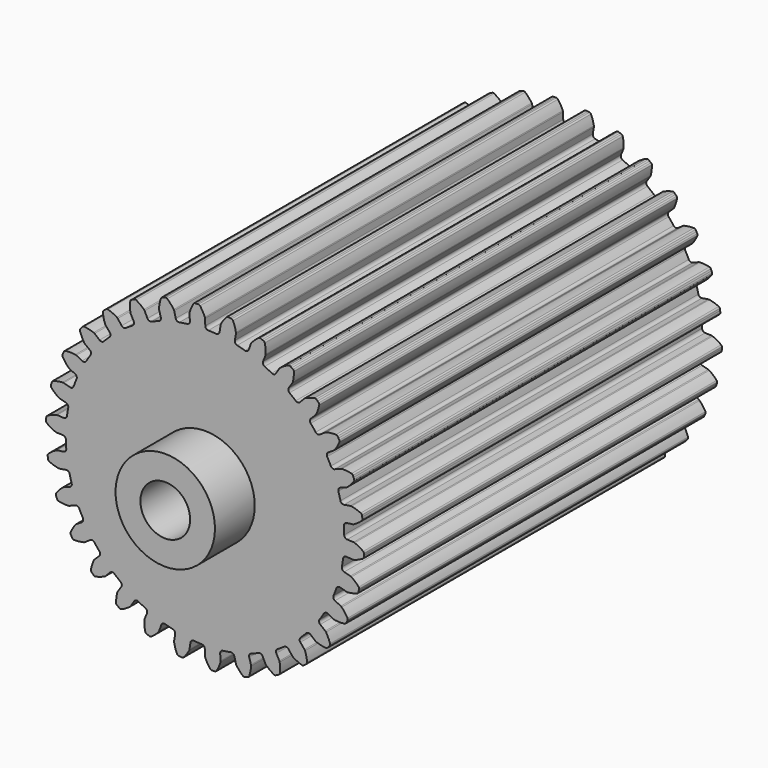
from build123d import *

# Parameters (mm, degrees)
F1_DEPTH = 114.3
F2_R     = 6.35
F3_DEPTH = 114.301
F4_R     = 12.7
F4_R_2   = 6.35
F5_DEPTH = 12.7


with BuildPart() as f1:
    # F0 (on Front) → F1 (new body)
    with BuildSketch(Plane.XZ):
        with BuildLine():
            ThreePointArc((-3.8648867532, 36.1064472555), (-4.0438641358, 35.5500539562), (-4.5552385769, 35.2670299502))
            ThreePointArc((-4.5552385769, 35.2670299502), (-5.5628095768, 35.1221973916), (-6.5658222639, 34.9485847782))
            ThreePointArc((-6.5658222639, 34.9485847782), (-7.139627486, 35.0597332106), (-7.4817800771, 35.5335876307))
            Line((-7.4817800771, 35.5335876307), (-7.8884012882, 37.1371493478))
            ThreePointArc((-7.8884012882, 37.1371493478), (-7.9329820235, 37.2655883274), (-7.9988274017, 37.3845353726))
            ThreePointArc((-7.9988274017, 37.3845353726), (-8.7617891916, 38.3738087942), (-9.6476630834, 39.2547174404))
            ThreePointArc((-9.6476630834, 39.2547174404), (-9.8626647032, 39.3656963897), (-10.1046169471, 39.3646308454))
            Line((-10.1046169471, 39.3646308454), (-10.5199155085, 39.2608591692))
            Line((-10.5199155086, 39.2608591692), (-10.931460451, 39.1430787963))
            ThreePointArc((-10.931460451, 39.1430787963), (-11.1415300129, 39.0230254627), (-11.2722374029, 38.8194140635))
            ThreePointArc((-11.2722374029, 38.8194140635), (-11.5989723746, 37.6135878515), (-11.7650799559, 36.3753710422))
            ThreePointArc((-11.7650799559, 36.3753710422), (-11.7626302036, 36.2394371902), (-11.7370187631, 36.1059154035))
            Line((-11.7370187631, 36.1059154035), (-11.287382203, 34.5138796143))
            ThreePointArc((-11.287382203, 34.5138796143), (-11.3467678289, 33.9324333533), (-11.7881235118, 33.5492733762))
            ThreePointArc((-11.7881235118, 33.5492733762), (-12.7435642858, 33.1981199662), (-13.6885626472, 32.8197631413))
            ThreePointArc((-13.6885626472, 32.8197631413), (-14.272937907, 32.8091818999), (-14.7061335168, 33.2015439403))
            Line((-14.7061335168, 33.2015439403), (-15.4372683068, 34.685522683))
            ThreePointArc((-15.4372683068, 34.685522683), (-15.5075788114, 34.8018861066), (-15.5967157914, 34.9045438496))
            ThreePointArc((-15.5967157914, 34.9045438496), (-16.5486865454, 35.7135705976), (-17.5983531733, 36.3910457378))
            ThreePointArc((-17.5983531733, 36.3910457378), (-17.8317303129, 36.4548981804), (-18.0681737806, 36.4035512207))
            Line((-18.0681737806, 36.4035512207), (-18.4528217274, 36.2157017785))
            Line((-18.4528217274, 36.2157017785), (-18.830885509, 36.0149301845))
            ThreePointArc((-18.830885509, 36.0149301845), (-19.0114040554, 35.8538243865), (-19.096921985, 35.6274867904))
            ThreePointArc((-19.096921985, 35.6274867904), (-19.1658116471, 34.3800787538), (-19.0708496289, 33.1343842445))
            ThreePointArc((-19.0708496289, 33.1343842445), (-19.0401911724, 33.0019302055), (-18.9873786629, 32.876651108))
            Line((-18.9873786629, 32.876651108), (-18.2165648877, 31.412889818))
            ThreePointArc((-18.2165648877, 31.412889818), (-18.1537633199, 30.831802587), (-18.5058108836, 30.3652525684))
            ThreePointArc((-18.5058108836, 30.3652525684), (-19.3673640851, 29.8231253961), (-20.2130471578, 29.2565603685))
            ThreePointArc((-20.2130471578, 29.2565603685), (-20.7824524523, 29.1247119043), (-21.2877583539, 29.418433461))
            Line((-21.2877583539, 29.418433461), (-22.3114526241, 30.7179722373))
            ThreePointArc((-22.3114526241, 30.7179722373), (-22.4044199916, 30.817174465), (-22.5129528597, 30.8990562698))
            ThreePointArc((-22.5129528597, 30.8990562698), (-23.6123268877, 31.4924779932), (-24.7799107833, 31.9369107127))
            ThreePointArc((-24.7799107833, 31.9369107127), (-25.0214637417, 31.9508459906), (-25.2420647192, 31.851461724))
            Line((-25.2420647192, 31.851461724), (-25.5792510904, 31.5877444378))
            Line((-25.5792510904, 31.5877444378), (-25.9073105097, 31.3127563047))
            ThreePointArc((-25.9073105097, 31.3127563047), (-26.0503885138, 31.1176391388), (-26.0869794392, 30.8784673849))
            ThreePointArc((-26.0869794392, 30.8784673849), (-25.8950129829, 29.6439952406), (-25.5431316609, 28.4452658589))
            ThreePointArc((-25.5431316609, 28.4452658589), (-25.4856044221, 28.3220805099), (-25.4078990036, 28.2105193995))
            Line((-25.4078990036, 28.2105193995), (-24.3495962741, 26.9390060009))
            ThreePointArc((-24.3495962741, 26.9390060009), (-24.1673522425, 26.3836741002), (-24.414705519, 25.8541245146))
            ThreePointArc((-24.414705519, 25.8541245146), (-25.144717139, 25.144717139), (-25.8541245146, 24.414705519))
            ThreePointArc((-25.8541245146, 24.414705519), (-26.3836741002, 24.1673522425), (-26.9390060009, 24.3495962741))
            Line((-26.9390060009, 24.3495962741), (-28.2105193995, 25.4078990036))
            ThreePointArc((-28.2105193995, 25.4078990036), (-28.3220805099, 25.4856044221), (-28.4452658589, 25.5431316609))
            ThreePointArc((-28.4452658589, 25.5431316609), (-29.6439952406, 25.8950129829), (-30.8784673849, 26.0869794392))
            ThreePointArc((-30.8784673849, 26.0869794392), (-31.1176391388, 26.0503885138), (-31.3127563047, 25.9073105097))
            Line((-31.3127563047, 25.9073105097), (-31.5877444378, 25.5792510904))
            Line((-31.5877444378, 25.5792510904), (-31.851461724, 25.2420647192))
            ThreePointArc((-31.851461724, 25.2420647192), (-31.9508459906, 25.0214637418), (-31.9369107127, 24.7799107833))
            ThreePointArc((-31.9369107127, 24.7799107833), (-31.4924779932, 23.6123268877), (-30.8990562698, 22.5129528597))
            ThreePointArc((-30.8990562698, 22.5129528597), (-30.817174465, 22.4044199916), (-30.7179722373, 22.3114526241))
            Line((-30.7179722373, 22.3114526241), (-29.418433461, 21.2877583539))
            ThreePointArc((-29.418433461, 21.2877583539), (-29.1247119043, 20.7824524523), (-29.2565603685, 20.2130471578))
            ThreePointArc((-29.2565603685, 20.2130471578), (-29.8231253961, 19.3673640851), (-30.3652525684, 18.5058108836))
            ThreePointArc((-30.3652525684, 18.5058108836), (-30.831802587, 18.1537633199), (-31.412889818, 18.2165648877))
            Line((-31.412889818, 18.2165648877), (-32.876651108, 18.9873786629))
            ThreePointArc((-32.876651108, 18.9873786629), (-33.0019302055, 19.0401911724), (-33.1343842445, 19.0708496289))
            ThreePointArc((-33.1343842445, 19.0708496289), (-34.3800787538, 19.1658116471), (-35.6274867904, 19.096921985))
            ThreePointArc((-35.6274867904, 19.096921985), (-35.8538243865, 19.0114040554), (-36.0149301844, 18.830885509))
            Line((-36.0149301844, 18.830885509), (-36.2157017785, 18.4528217274))
            Line((-36.2157017785, 18.4528217274), (-36.4035512207, 18.0681737806))
            ThreePointArc((-36.4035512207, 18.0681737806), (-36.4548981804, 17.8317303129), (-36.3910457378, 17.5983531733))
            ThreePointArc((-36.3910457378, 17.5983531733), (-35.7135705976, 16.5486865454), (-34.9045438496, 15.5967157914))
            ThreePointArc((-34.9045438496, 15.5967157914), (-34.8018861066, 15.5075788114), (-34.685522683, 15.4372683068))
            Line((-34.685522683, 15.4372683068), (-33.2015439403, 14.7061335168))
            ThreePointArc((-33.2015439403, 14.7061335168), (-32.8091818999, 14.272937907), (-32.8197631413, 13.6885626472))
            ThreePointArc((-32.8197631413, 13.6885626472), (-33.1981199662, 12.7435642858), (-33.5492733762, 11.7881235118))
            ThreePointArc((-33.5492733762, 11.7881235118), (-33.9324333533, 11.3467678289), (-34.5138796143, 11.287382203))
            Line((-34.5138796143, 11.287382203), (-36.1059154035, 11.7370187631))
            ThreePointArc((-36.1059154035, 11.7370187631), (-36.2394371902, 11.7626302036), (-36.3753710422, 11.7650799559))
            ThreePointArc((-36.3753710422, 11.7650799559), (-37.6135878515, 11.5989723746), (-38.8194140635, 11.2722374029))
            ThreePointArc((-38.8194140635, 11.2722374029), (-39.0230254627, 11.1415300129), (-39.1430787963, 10.931460451))
            Line((-39.1430787963, 10.931460451), (-39.2608591692, 10.5199155085))
            Line((-39.2608591692, 10.5199155085), (-39.3646308455, 10.1046169471))
            ThreePointArc((-39.3646308455, 10.1046169471), (-39.3656963897, 9.8626647032), (-39.2547174405, 9.6476630834))
            ThreePointArc((-39.2547174405, 9.6476630834), (-38.3738087942, 8.7617891916), (-37.3845353726, 7.9988274017))
            ThreePointArc((-37.3845353726, 7.9988274017), (-37.2655883274, 7.9329820235), (-37.1371493478, 7.8884012882))
            Line((-37.1371493478, 7.8884012882), (-35.5335876307, 7.4817800771))
            ThreePointArc((-35.5335876307, 7.4817800771), (-35.0597332106, 7.139627486), (-34.9485847782, 6.5658222639))
            ThreePointArc((-34.9485847782, 6.5658222639), (-35.1221973916, 5.5628095768), (-35.2670299502, 4.5552385769))
            ThreePointArc((-35.2670299502, 4.5552385769), (-35.5500539562, 4.0438641358), (-36.1064472555, 3.8648867532))
            Line((-36.1064472555, 3.8648867532), (-37.7571779404, 3.9736948228))
            ThreePointArc((-37.7571779404, 3.9736948228), (-37.8931068736, 3.9709858514), (-38.026579577, 3.9451198338))
            ThreePointArc((-38.026579577, 3.9451198338), (-39.2032026701, 3.5252023512), (-40.3147466658, 2.954901956))
            ThreePointArc((-40.3147466658, 2.954901956), (-40.486733073, 2.7847176458), (-40.5604870354, 2.5542781163))
            Line((-40.5604870354, 2.5542781163), (-40.5901286198, 2.1272385018))
            Line((-40.5901286198, 2.1272385018), (-40.6052872098, 1.6994398656))
            ThreePointArc((-40.6052872098, 1.6994398656), (-40.5560247692, 1.4625533197), (-40.402769626, 1.2753238221))
            ThreePointArc((-40.402769626, 1.2753238221), (-39.3569274084, 0.5919596064), (-38.2306433089, 0.0513518719))
            ThreePointArc((-38.2306433089, 0.0513518719), (-38.1006055181, 0.0116758545), (-37.9657043824, -0.0052267193))
            Line((-37.9657043824, -0.0052267193), (-36.3126430326, -0.0695630535))
            ThreePointArc((-36.3126430326, -0.0695630535), (-35.7780059448, -0.3057189159), (-35.5499855583, -0.8438760587))
            ThreePointArc((-35.5499855583, -0.8438760587), (-35.5112662559, -1.861066604), (-35.4434480854, -2.8767321423))
            ThreePointArc((-35.4434480854, -2.8767321423), (-35.6139666132, -3.4357758245), (-36.1209898937, -3.7265227936))
            Line((-36.1209898937, -3.7265227936), (-37.7582706223, -3.9632986491))
            ThreePointArc((-37.7582706223, -3.9632986491), (-37.8906659554, -3.9942096373), (-38.0158441125, -4.0472609558))
            ThreePointArc((-38.0158441125, -4.0472609558), (-39.0794494141, -4.7026359306), (-40.0481313872, -5.4915768855))
            ThreePointArc((-40.0481313872, -5.4915768855), (-40.1809761711, -5.6938002449), (-40.2052073603, -5.9345384288))
            Line((-40.2052073603, -5.9345384288), (-40.1454146766, -6.3584090351))
            Line((-40.1454146766, -6.3584090351), (-40.0712976773, -6.7800108928))
            ThreePointArc((-40.0712976773, -6.7800108928), (-39.9738602569, -7.001478662), (-39.7850269048, -7.1527532099))
            ThreePointArc((-39.7850269048, -7.1527532099), (-38.6199594395, -7.6037414542), (-37.4058886817, -7.8983679811))
            ThreePointArc((-37.4058886817, -7.8983679811), (-37.2704434206, -7.9101406054), (-37.1349759557, -7.8986262942))
            Line((-37.1349759557, -7.8986262942), (-35.5046616866, -7.6178659448))
            ThreePointArc((-35.5046616866, -7.6178659448), (-34.9326081372, -7.7377039341), (-34.5976813818, -8.2166929481))
            ThreePointArc((-34.5976813818, -8.2166929481), (-34.3483223828, -9.2036052438), (-34.0708174627, -10.1829758628))
            ThreePointArc((-34.0708174627, -10.1829758628), (-34.1213780343, -10.7652558947), (-34.5568719457, -11.1550654125))
            Line((-34.5568719457, -11.1550654125), (-36.1091456937, -11.7270769521))
            ThreePointArc((-36.1091456937, -11.7270769521), (-36.2322211153, -11.7848389986), (-36.34363384, -11.8627570208))
            ThreePointArc((-36.34363384, -11.8627570208), (-37.2477366948, -12.7249464566), (-38.0312205948, -13.6980474656))
            ThreePointArc((-38.0312205948, -13.6980474656), (-38.1191178008, -13.9234717431), (-38.0927671975, -14.1639871676))
            Line((-38.0927671975, -14.1639871676), (-37.9461534729, -14.5661635862))
            Line((-37.946153473, -14.5661635862), (-37.7860001528, -14.963142641))
            ThreePointArc((-37.7860001528, -14.963142641), (-37.6446462355, -15.1595124294), (-37.4284875982, -15.268220604))
            ThreePointArc((-37.4284875982, -15.268220604), (-36.1951139239, -15.4671225264), (-34.9463172256, -15.5028912528))
            ThreePointArc((-34.9463172256, -15.5028912528), (-34.8113841023, -15.4862459637), (-34.6812708864, -15.4468179982))
            Line((-34.6812708864, -15.4468179982), (-33.1449562546, -14.8332315398))
            ThreePointArc((-33.1449562546, -14.8332315398), (-32.5604877288, -14.8315141608), (-32.1332925108, -15.2304009276))
            ThreePointArc((-32.1332925108, -15.2304009276), (-31.6841920001, -16.1439021707), (-31.209128627, -17.0441746747))
            ThreePointArc((-31.209128627, -17.0441746747), (-31.1375215029, -17.6242426248), (-31.4824528715, -18.0960781448))
            Line((-31.4824528715, -18.0960781448), (-32.8818778274, -18.9783257195))
            ThreePointArc((-32.8818778274, -18.9783257195), (-32.990254351, -19.0604143456), (-33.0830323726, -19.1597936801))
            ThreePointArc((-33.0830323726, -19.1597936801), (-33.7881191474, -20.1911157613), (-34.3521629683, -21.3058476409))
            ThreePointArc((-34.3521629683, -21.3058476409), (-34.3912710668, -21.5446207138), (-34.3154903188, -21.7744017007))
            Line((-34.3154903188, -21.7744017007), (-34.0884632767, -22.1373068923))
            Line((-34.0884632767, -22.1373068923), (-33.8492731044, -22.4923132548))
            ThreePointArc((-33.8492731044, -22.4923132548), (-33.6701805346, -22.6550027601), (-33.4361437817, -22.7163934925))
            ThreePointArc((-33.4361437817, -22.7163934925), (-32.1883682464, -22.6545161247), (-30.9594240158, -22.4298637856))
            ThreePointArc((-30.9594240158, -22.4298637856), (-30.8309002552, -22.3855280622), (-30.7118278602, -22.3199096336))
            Line((-30.7118278602, -22.3199096336), (-29.3366571871, -21.4003137387))
            ThreePointArc((-29.3366571871, -21.4003137387), (-28.7653177641, -21.2771160492), (-28.2645245644, -21.578467303))
            ThreePointArc((-28.2645245644, -21.578467303), (-27.6353103894, -22.3786331057), (-26.9834511123, -23.1604612664))
            ThreePointArc((-26.9834511123, -23.1604612664), (-26.7928058673, -23.7129653818), (-27.0320995372, -24.2462054277))
            Line((-27.0320995372, -24.2462054277), (-28.2175141152, -25.4001305848))
            ThreePointArc((-28.2175141152, -25.4001305848), (-28.3064551667, -25.5029581238), (-28.3765436405, -25.6194554167))
            ThreePointArc((-28.3765436405, -25.6194554167), (-28.8517986599, -26.7748364196), (-29.1717509801, -27.9824800376))
            ThreePointArc((-29.1717509801, -27.9824800376), (-29.1603607595, -28.2241663768), (-29.0384618492, -28.4331703944))
            Line((-29.0384618492, -28.4331703944), (-28.7409436607, -28.7409436607))
            Line((-28.7409436607, -28.7409436607), (-28.4331703944, -29.0384618492))
            ThreePointArc((-28.4331703944, -29.0384618492), (-28.2241663768, -29.1603607595), (-27.9824800376, -29.1717509801))
            ThreePointArc((-27.9824800376, -29.1717509801), (-26.7748364196, -28.8517986599), (-25.6194554167, -28.3765436405))
            ThreePointArc((-25.6194554167, -28.3765436405), (-25.5029581238, -28.3064551667), (-25.4001305848, -28.2175141152))
            Line((-25.4001305848, -28.2175141152), (-24.2462054277, -27.0320995372))
            ThreePointArc((-24.2462054277, -27.0320995372), (-23.7129653818, -26.7928058673), (-23.1604612664, -26.9834511123))
            ThreePointArc((-23.1604612664, -26.9834511123), (-22.3786331057, -27.6353103894), (-21.578467303, -28.2645245644))
            ThreePointArc((-21.578467303, -28.2645245644), (-21.2771160492, -28.7653177641), (-21.4003137387, -29.3366571871))
            Line((-21.4003137387, -29.3366571871), (-22.3199096336, -30.7118278602))
            ThreePointArc((-22.3199096336, -30.7118278602), (-22.3855280622, -30.8309002552), (-22.4298637856, -30.9594240158))
            ThreePointArc((-22.4298637856, -30.9594240158), (-22.6545161247, -32.1883682464), (-22.7163934925, -33.4361437817))
            ThreePointArc((-22.7163934925, -33.4361437817), (-22.6550027601, -33.6701805346), (-22.4923132548, -33.8492731044))
            Line((-22.4923132548, -33.8492731044), (-22.1373068923, -34.0884632767))
            Line((-22.1373068923, -34.0884632767), (-21.7744017007, -34.3154903188))
            ThreePointArc((-21.7744017007, -34.3154903188), (-21.5446207138, -34.3912710668), (-21.305847641, -34.3521629683))
            ThreePointArc((-21.305847641, -34.3521629683), (-20.1911157613, -33.7881191474), (-19.1597936801, -33.0830323726))
            ThreePointArc((-19.1597936801, -33.0830323726), (-19.0604143456, -32.990254351), (-18.9783257195, -32.8818778274))
            Line((-18.9783257195, -32.8818778274), (-18.0960781448, -31.4824528715))
            ThreePointArc((-18.0960781448, -31.4824528715), (-17.6242426248, -31.1375215029), (-17.0441746747, -31.209128627))
            ThreePointArc((-17.0441746747, -31.209128627), (-16.1439021707, -31.6841920001), (-15.2304009276, -32.1332925108))
            ThreePointArc((-15.2304009276, -32.1332925108), (-14.8315141608, -32.5604877288), (-14.8332315398, -33.1449562546))
            Line((-14.8332315398, -33.1449562546), (-15.4468179982, -34.6812708864))
            ThreePointArc((-15.4468179982, -34.6812708864), (-15.4862459637, -34.8113841023), (-15.5028912528, -34.9463172256))
            ThreePointArc((-15.5028912528, -34.9463172256), (-15.4671225264, -36.1951139239), (-15.268220604, -37.4284875982))
            ThreePointArc((-15.268220604, -37.4284875982), (-15.1595124294, -37.6446462355), (-14.963142641, -37.7860001528))
            Line((-14.963142641, -37.7860001528), (-14.5661635862, -37.946153473))
            Line((-14.5661635862, -37.946153473), (-14.1639871676, -38.0927671975))
            ThreePointArc((-14.1639871676, -38.0927671975), (-13.9234717431, -38.1191178008), (-13.6980474656, -38.0312205948))
            ThreePointArc((-13.6980474656, -38.0312205948), (-12.7249464566, -37.2477366948), (-11.8627570208, -36.34363384))
            ThreePointArc((-11.8627570208, -36.34363384), (-11.7848389986, -36.2322211153), (-11.7270769521, -36.1091456937))
            Line((-11.7270769521, -36.1091456937), (-11.1550654125, -34.5568719457))
            ThreePointArc((-11.1550654125, -34.5568719457), (-10.7652558947, -34.1213780343), (-10.1829758628, -34.0708174627))
            ThreePointArc((-10.1829758628, -34.0708174627), (-9.2036052438, -34.3483223828), (-8.2166929481, -34.5976813818))
            ThreePointArc((-8.2166929481, -34.5976813818), (-7.7377039341, -34.9326081372), (-7.6178659448, -35.5046616866))
            Line((-7.6178659448, -35.5046616866), (-7.8986262942, -37.1349759557))
            ThreePointArc((-7.8986262942, -37.1349759557), (-7.9101406054, -37.2704434206), (-7.8983679811, -37.4058886817))
            ThreePointArc((-7.8983679811, -37.4058886817), (-7.6037414542, -38.6199594395), (-7.1527532099, -39.7850269048))
            ThreePointArc((-7.1527532099, -39.7850269048), (-7.001478662, -39.9738602569), (-6.7800108928, -40.0712976773))
            Line((-6.7800108928, -40.0712976773), (-6.3584090351, -40.1454146766))
            Line((-6.3584090351, -40.1454146766), (-5.9345384288, -40.2052073603))
            ThreePointArc((-5.9345384288, -40.2052073603), (-5.6938002449, -40.1809761711), (-5.4915768855, -40.0481313873))
            ThreePointArc((-5.4915768855, -40.0481313873), (-4.7026359306, -39.0794494141), (-4.0472609558, -38.0158441125))
            ThreePointArc((-4.0472609558, -38.0158441125), (-3.9942096373, -37.8906659554), (-3.9632986491, -37.7582706223))
            Line((-3.9632986491, -37.7582706223), (-3.7265227936, -36.1209898937))
            ThreePointArc((-3.7265227936, -36.1209898937), (-3.4357758245, -35.6139666132), (-2.8767321423, -35.4434480854))
            ThreePointArc((-2.8767321423, -35.4434480854), (-1.861066604, -35.5112662559), (-0.8438760587, -35.5499855583))
            ThreePointArc((-0.8438760587, -35.5499855583), (-0.3057189159, -35.7780059448), (-0.0695630535, -36.3126430326))
            Line((-0.0695630535, -36.3126430326), (-0.0052267193, -37.9657043824))
            ThreePointArc((-0.0052267193, -37.9657043824), (0.0116758545, -38.1006055181), (0.0513518719, -38.2306433089))
            ThreePointArc((0.0513518719, -38.2306433089), (0.5919596064, -39.3569274084), (1.2753238221, -40.402769626))
            ThreePointArc((1.2753238221, -40.402769626), (1.4625533197, -40.5560247692), (1.6994398656, -40.6052872098))
            Line((1.6994398656, -40.6052872098), (2.1272385018, -40.5901286198))
            Line((2.1272385018, -40.5901286198), (2.5542781163, -40.5604870354))
            ThreePointArc((2.5542781163, -40.5604870354), (2.7847176458, -40.486733073), (2.954901956, -40.3147466658))
            ThreePointArc((2.954901956, -40.3147466658), (3.5252023512, -39.2032026701), (3.9451198338, -38.026579577))
            ThreePointArc((3.9451198338, -38.026579577), (3.9709858514, -37.8931068736), (3.9736948228, -37.7571779404))
            Line((3.9736948228, -37.7571779404), (3.8648867532, -36.1064472555))
            ThreePointArc((3.8648867532, -36.1064472555), (4.0438641358, -35.5500539562), (4.5552385769, -35.2670299502))
            ThreePointArc((4.5552385769, -35.2670299502), (5.5628095768, -35.1221973916), (6.5658222639, -34.9485847782))
            ThreePointArc((6.5658222639, -34.9485847782), (7.139627486, -35.0597332106), (7.4817800771, -35.5335876307))
            Line((7.4817800771, -35.5335876307), (7.8884012882, -37.1371493478))
            ThreePointArc((7.8884012882, -37.1371493478), (7.9329820235, -37.2655883274), (7.9988274017, -37.3845353726))
            ThreePointArc((7.9988274017, -37.3845353726), (8.7617891916, -38.3738087942), (9.6476630834, -39.2547174404))
            ThreePointArc((9.6476630834, -39.2547174404), (9.8626647032, -39.3656963897), (10.1046169471, -39.3646308454))
            Line((10.1046169471, -39.3646308454), (10.5199155085, -39.2608591692))
            Line((10.5199155086, -39.2608591692), (10.931460451, -39.1430787963))
            ThreePointArc((10.931460451, -39.1430787963), (11.1415300129, -39.0230254627), (11.2722374029, -38.8194140635))
            ThreePointArc((11.2722374029, -38.8194140635), (11.5989723746, -37.6135878515), (11.7650799559, -36.3753710422))
            ThreePointArc((11.7650799559, -36.3753710422), (11.7626302036, -36.2394371902), (11.7370187631, -36.1059154035))
            Line((11.7370187631, -36.1059154035), (11.287382203, -34.5138796143))
            ThreePointArc((11.287382203, -34.5138796143), (11.3467678289, -33.9324333533), (11.7881235118, -33.5492733762))
            ThreePointArc((11.7881235118, -33.5492733762), (12.7435642858, -33.1981199662), (13.6885626472, -32.8197631413))
            ThreePointArc((13.6885626472, -32.8197631413), (14.272937907, -32.8091818999), (14.7061335168, -33.2015439403))
            Line((14.7061335168, -33.2015439403), (15.4372683068, -34.685522683))
            ThreePointArc((15.4372683068, -34.685522683), (15.5075788114, -34.8018861066), (15.5967157914, -34.9045438496))
            ThreePointArc((15.5967157914, -34.9045438496), (16.5486865454, -35.7135705976), (17.5983531733, -36.3910457378))
            ThreePointArc((17.5983531733, -36.3910457378), (17.8317303129, -36.4548981804), (18.0681737806, -36.4035512207))
            Line((18.0681737806, -36.4035512207), (18.4528217274, -36.2157017785))
            Line((18.4528217274, -36.2157017785), (18.830885509, -36.0149301845))
            ThreePointArc((18.830885509, -36.0149301845), (19.0114040554, -35.8538243865), (19.096921985, -35.6274867904))
            ThreePointArc((19.096921985, -35.6274867904), (19.1658116471, -34.3800787538), (19.0708496289, -33.1343842445))
            ThreePointArc((19.0708496289, -33.1343842445), (19.0401911724, -33.0019302055), (18.9873786629, -32.876651108))
            Line((18.9873786629, -32.876651108), (18.2165648877, -31.412889818))
            ThreePointArc((18.2165648877, -31.412889818), (18.1537633199, -30.831802587), (18.5058108836, -30.3652525684))
            ThreePointArc((18.5058108836, -30.3652525684), (19.3673640851, -29.8231253961), (20.2130471578, -29.2565603685))
            ThreePointArc((20.2130471578, -29.2565603685), (20.7824524523, -29.1247119043), (21.2877583539, -29.418433461))
            Line((21.2877583539, -29.418433461), (22.3114526241, -30.7179722373))
            ThreePointArc((22.3114526241, -30.7179722373), (22.4044199916, -30.817174465), (22.5129528597, -30.8990562698))
            ThreePointArc((22.5129528597, -30.8990562698), (23.6123268877, -31.4924779932), (24.7799107833, -31.9369107127))
            ThreePointArc((24.7799107833, -31.9369107127), (25.0214637417, -31.9508459906), (25.2420647192, -31.851461724))
            Line((25.2420647192, -31.851461724), (25.5792510904, -31.5877444378))
            Line((25.5792510904, -31.5877444378), (25.9073105097, -31.3127563047))
            ThreePointArc((25.9073105097, -31.3127563047), (26.0503885138, -31.1176391388), (26.0869794392, -30.8784673849))
            ThreePointArc((26.0869794392, -30.8784673849), (25.8950129829, -29.6439952406), (25.5431316609, -28.4452658589))
            ThreePointArc((25.5431316609, -28.4452658589), (25.4856044221, -28.3220805099), (25.4078990036, -28.2105193995))
            Line((25.4078990036, -28.2105193995), (24.3495962741, -26.9390060009))
            ThreePointArc((24.3495962741, -26.9390060009), (24.1673522425, -26.3836741002), (24.414705519, -25.8541245146))
            ThreePointArc((24.414705519, -25.8541245146), (25.144717139, -25.144717139), (25.8541245146, -24.414705519))
            ThreePointArc((25.8541245146, -24.414705519), (26.3836741002, -24.1673522425), (26.9390060009, -24.3495962741))
            Line((26.9390060009, -24.3495962741), (28.2105193995, -25.4078990036))
            ThreePointArc((28.2105193995, -25.4078990036), (28.3220805099, -25.4856044221), (28.4452658589, -25.5431316609))
            ThreePointArc((28.4452658589, -25.5431316609), (29.6439952406, -25.8950129829), (30.8784673849, -26.0869794392))
            ThreePointArc((30.8784673849, -26.0869794392), (31.1176391388, -26.0503885138), (31.3127563047, -25.9073105097))
            Line((31.3127563047, -25.9073105097), (31.5877444378, -25.5792510904))
            Line((31.5877444378, -25.5792510904), (31.851461724, -25.2420647192))
            ThreePointArc((31.851461724, -25.2420647192), (31.9508459906, -25.0214637418), (31.9369107127, -24.7799107833))
            ThreePointArc((31.9369107127, -24.7799107833), (31.4924779932, -23.6123268877), (30.8990562698, -22.5129528597))
            ThreePointArc((30.8990562698, -22.5129528597), (30.817174465, -22.4044199916), (30.7179722373, -22.3114526241))
            Line((30.7179722373, -22.3114526241), (29.418433461, -21.2877583539))
            ThreePointArc((29.418433461, -21.2877583539), (29.1247119043, -20.7824524523), (29.2565603685, -20.2130471578))
            ThreePointArc((29.2565603685, -20.2130471578), (29.8231253961, -19.3673640851), (30.3652525684, -18.5058108836))
            ThreePointArc((30.3652525684, -18.5058108836), (30.831802587, -18.1537633199), (31.412889818, -18.2165648877))
            Line((31.412889818, -18.2165648877), (32.876651108, -18.9873786629))
            ThreePointArc((32.876651108, -18.9873786629), (33.0019302055, -19.0401911724), (33.1343842445, -19.0708496289))
            ThreePointArc((33.1343842445, -19.0708496289), (34.3800787538, -19.1658116471), (35.6274867904, -19.096921985))
            ThreePointArc((35.6274867904, -19.096921985), (35.8538243865, -19.0114040554), (36.0149301844, -18.830885509))
            Line((36.0149301844, -18.830885509), (36.2157017785, -18.4528217274))
            Line((36.2157017785, -18.4528217274), (36.4035512207, -18.0681737806))
            ThreePointArc((36.4035512207, -18.0681737806), (36.4548981804, -17.8317303129), (36.3910457378, -17.5983531733))
            ThreePointArc((36.3910457378, -17.5983531733), (35.7135705976, -16.5486865454), (34.9045438496, -15.5967157914))
            ThreePointArc((34.9045438496, -15.5967157914), (34.8018861066, -15.5075788114), (34.685522683, -15.4372683068))
            Line((34.685522683, -15.4372683068), (33.2015439403, -14.7061335168))
            ThreePointArc((33.2015439403, -14.7061335168), (32.8091818999, -14.272937907), (32.8197631413, -13.6885626472))
            ThreePointArc((32.8197631413, -13.6885626472), (33.1981199662, -12.7435642858), (33.5492733762, -11.7881235118))
            ThreePointArc((33.5492733762, -11.7881235118), (33.9324333533, -11.3467678289), (34.5138796143, -11.287382203))
            Line((34.5138796143, -11.287382203), (36.1059154035, -11.7370187631))
            ThreePointArc((36.1059154035, -11.7370187631), (36.2394371902, -11.7626302036), (36.3753710422, -11.7650799559))
            ThreePointArc((36.3753710422, -11.7650799559), (37.6135878515, -11.5989723746), (38.8194140635, -11.2722374029))
            ThreePointArc((38.8194140635, -11.2722374029), (39.0230254627, -11.1415300129), (39.1430787963, -10.931460451))
            Line((39.1430787963, -10.931460451), (39.2608591692, -10.5199155085))
            Line((39.2608591692, -10.5199155085), (39.3646308455, -10.1046169471))
            ThreePointArc((39.3646308455, -10.1046169471), (39.3656963897, -9.8626647032), (39.2547174405, -9.6476630834))
            ThreePointArc((39.2547174405, -9.6476630834), (38.3738087942, -8.7617891916), (37.3845353726, -7.9988274017))
            ThreePointArc((37.3845353726, -7.9988274017), (37.2655883274, -7.9329820235), (37.1371493478, -7.8884012882))
            Line((37.1371493478, -7.8884012882), (35.5335876307, -7.4817800771))
            ThreePointArc((35.5335876307, -7.4817800771), (35.0597332106, -7.139627486), (34.9485847782, -6.5658222639))
            ThreePointArc((34.9485847782, -6.5658222639), (35.1221973916, -5.5628095768), (35.2670299502, -4.5552385769))
            ThreePointArc((35.2670299502, -4.5552385769), (35.5500539562, -4.0438641358), (36.1064472555, -3.8648867532))
            Line((36.1064472555, -3.8648867532), (37.7571779404, -3.9736948228))
            ThreePointArc((37.7571779404, -3.9736948228), (37.8931068736, -3.9709858514), (38.026579577, -3.9451198338))
            ThreePointArc((38.026579577, -3.9451198338), (39.2032026701, -3.5252023512), (40.3147466658, -2.954901956))
            ThreePointArc((40.3147466658, -2.954901956), (40.486733073, -2.7847176458), (40.5604870354, -2.5542781163))
            Line((40.5604870354, -2.5542781163), (40.5901286198, -2.1272385018))
            Line((40.5901286198, -2.1272385018), (40.6052872098, -1.6994398656))
            ThreePointArc((40.6052872098, -1.6994398656), (40.5560247692, -1.4625533197), (40.402769626, -1.2753238221))
            ThreePointArc((40.402769626, -1.2753238221), (39.3569274084, -0.5919596064), (38.2306433089, -0.0513518719))
            ThreePointArc((38.2306433089, -0.0513518719), (38.1006055181, -0.0116758545), (37.9657043824, 0.0052267193))
            Line((37.9657043824, 0.0052267193), (36.3126430326, 0.0695630535))
            ThreePointArc((36.3126430326, 0.0695630535), (35.7780059448, 0.3057189159), (35.5499855583, 0.8438760587))
            ThreePointArc((35.5499855583, 0.8438760587), (35.5112662559, 1.861066604), (35.4434480854, 2.8767321423))
            ThreePointArc((35.4434480854, 2.8767321423), (35.6139666132, 3.4357758245), (36.1209898937, 3.7265227936))
            Line((36.1209898937, 3.7265227936), (37.7582706223, 3.9632986491))
            ThreePointArc((37.7582706223, 3.9632986491), (37.8906659554, 3.9942096373), (38.0158441125, 4.0472609558))
            ThreePointArc((38.0158441125, 4.0472609558), (39.0794494141, 4.7026359306), (40.0481313872, 5.4915768855))
            ThreePointArc((40.0481313872, 5.4915768855), (40.1809761711, 5.6938002449), (40.2052073603, 5.9345384288))
            Line((40.2052073603, 5.9345384288), (40.1454146766, 6.3584090351))
            Line((40.1454146766, 6.3584090351), (40.0712976773, 6.7800108928))
            ThreePointArc((40.0712976773, 6.7800108928), (39.9738602569, 7.001478662), (39.7850269048, 7.1527532099))
            ThreePointArc((39.7850269048, 7.1527532099), (38.6199594395, 7.6037414542), (37.4058886817, 7.8983679811))
            ThreePointArc((37.4058886817, 7.8983679811), (37.2704434206, 7.9101406054), (37.1349759557, 7.8986262942))
            Line((37.1349759557, 7.8986262942), (35.5046616866, 7.6178659448))
            ThreePointArc((35.5046616866, 7.6178659448), (34.9326081372, 7.7377039341), (34.5976813818, 8.2166929481))
            ThreePointArc((34.5976813818, 8.2166929481), (34.3483223828, 9.2036052438), (34.0708174627, 10.1829758628))
            ThreePointArc((34.0708174627, 10.1829758628), (34.1213780343, 10.7652558947), (34.5568719457, 11.1550654125))
            Line((34.5568719457, 11.1550654125), (36.1091456937, 11.7270769521))
            ThreePointArc((36.1091456937, 11.7270769521), (36.2322211153, 11.7848389986), (36.34363384, 11.8627570208))
            ThreePointArc((36.34363384, 11.8627570208), (37.2477366948, 12.7249464566), (38.0312205948, 13.6980474656))
            ThreePointArc((38.0312205948, 13.6980474656), (38.1191178008, 13.9234717431), (38.0927671975, 14.1639871676))
            Line((38.0927671975, 14.1639871676), (37.9461534729, 14.5661635862))
            Line((37.946153473, 14.5661635862), (37.7860001528, 14.963142641))
            ThreePointArc((37.7860001528, 14.963142641), (37.6446462355, 15.1595124294), (37.4284875982, 15.268220604))
            ThreePointArc((37.4284875982, 15.268220604), (36.1951139239, 15.4671225264), (34.9463172256, 15.5028912528))
            ThreePointArc((34.9463172256, 15.5028912528), (34.8113841023, 15.4862459637), (34.6812708864, 15.4468179982))
            Line((34.6812708864, 15.4468179982), (33.1449562546, 14.8332315398))
            ThreePointArc((33.1449562546, 14.8332315398), (32.5604877288, 14.8315141608), (32.1332925108, 15.2304009276))
            ThreePointArc((32.1332925108, 15.2304009276), (31.6841920001, 16.1439021707), (31.209128627, 17.0441746747))
            ThreePointArc((31.209128627, 17.0441746747), (31.1375215029, 17.6242426248), (31.4824528715, 18.0960781448))
            Line((31.4824528715, 18.0960781448), (32.8818778274, 18.9783257195))
            ThreePointArc((32.8818778274, 18.9783257195), (32.990254351, 19.0604143456), (33.0830323726, 19.1597936801))
            ThreePointArc((33.0830323726, 19.1597936801), (33.7881191474, 20.1911157613), (34.3521629683, 21.3058476409))
            ThreePointArc((34.3521629683, 21.3058476409), (34.3912710668, 21.5446207138), (34.3154903188, 21.7744017007))
            Line((34.3154903188, 21.7744017007), (34.0884632767, 22.1373068923))
            Line((34.0884632767, 22.1373068923), (33.8492731044, 22.4923132548))
            ThreePointArc((33.8492731044, 22.4923132548), (33.6701805346, 22.6550027601), (33.4361437817, 22.7163934925))
            ThreePointArc((33.4361437817, 22.7163934925), (32.1883682464, 22.6545161247), (30.9594240158, 22.4298637856))
            ThreePointArc((30.9594240158, 22.4298637856), (30.8309002552, 22.3855280622), (30.7118278602, 22.3199096336))
            Line((30.7118278602, 22.3199096336), (29.3366571871, 21.4003137387))
            ThreePointArc((29.3366571871, 21.4003137387), (28.7653177641, 21.2771160492), (28.2645245644, 21.578467303))
            ThreePointArc((28.2645245644, 21.578467303), (27.6353103894, 22.3786331057), (26.9834511123, 23.1604612664))
            ThreePointArc((26.9834511123, 23.1604612664), (26.7928058673, 23.7129653818), (27.0320995372, 24.2462054277))
            Line((27.0320995372, 24.2462054277), (28.2175141152, 25.4001305848))
            ThreePointArc((28.2175141152, 25.4001305848), (28.3064551667, 25.5029581238), (28.3765436405, 25.6194554167))
            ThreePointArc((28.3765436405, 25.6194554167), (28.8517986599, 26.7748364196), (29.1717509801, 27.9824800376))
            ThreePointArc((29.1717509801, 27.9824800376), (29.1603607595, 28.2241663768), (29.0384618492, 28.4331703944))
            Line((29.0384618492, 28.4331703944), (28.7409436607, 28.7409436607))
            Line((28.7409436607, 28.7409436607), (28.4331703944, 29.0384618492))
            ThreePointArc((28.4331703944, 29.0384618492), (28.2241663768, 29.1603607595), (27.9824800376, 29.1717509801))
            ThreePointArc((27.9824800376, 29.1717509801), (26.7748364196, 28.8517986599), (25.6194554167, 28.3765436405))
            ThreePointArc((25.6194554167, 28.3765436405), (25.5029581238, 28.3064551667), (25.4001305848, 28.2175141152))
            Line((25.4001305848, 28.2175141152), (24.2462054277, 27.0320995372))
            ThreePointArc((24.2462054277, 27.0320995372), (23.7129653818, 26.7928058673), (23.1604612664, 26.9834511123))
            ThreePointArc((23.1604612664, 26.9834511123), (22.3786331057, 27.6353103894), (21.578467303, 28.2645245644))
            ThreePointArc((21.578467303, 28.2645245644), (21.2771160492, 28.7653177641), (21.4003137387, 29.3366571871))
            Line((21.4003137387, 29.3366571871), (22.3199096336, 30.7118278602))
            ThreePointArc((22.3199096336, 30.7118278602), (22.3855280622, 30.8309002552), (22.4298637856, 30.9594240158))
            ThreePointArc((22.4298637856, 30.9594240158), (22.6545161247, 32.1883682464), (22.7163934925, 33.4361437817))
            ThreePointArc((22.7163934925, 33.4361437817), (22.6550027601, 33.6701805346), (22.4923132548, 33.8492731044))
            Line((22.4923132548, 33.8492731044), (22.1373068923, 34.0884632767))
            Line((22.1373068923, 34.0884632767), (21.7744017007, 34.3154903188))
            ThreePointArc((21.7744017007, 34.3154903188), (21.5446207138, 34.3912710668), (21.305847641, 34.3521629683))
            ThreePointArc((21.305847641, 34.3521629683), (20.1911157613, 33.7881191474), (19.1597936801, 33.0830323726))
            ThreePointArc((19.1597936801, 33.0830323726), (19.0604143456, 32.990254351), (18.9783257195, 32.8818778274))
            Line((18.9783257195, 32.8818778274), (18.0960781448, 31.4824528715))
            ThreePointArc((18.0960781448, 31.4824528715), (17.6242426248, 31.1375215029), (17.0441746747, 31.209128627))
            ThreePointArc((17.0441746747, 31.209128627), (16.1439021707, 31.6841920001), (15.2304009276, 32.1332925108))
            ThreePointArc((15.2304009276, 32.1332925108), (14.8315141608, 32.5604877288), (14.8332315398, 33.1449562546))
            Line((14.8332315398, 33.1449562546), (15.4468179982, 34.6812708864))
            ThreePointArc((15.4468179982, 34.6812708864), (15.4862459637, 34.8113841023), (15.5028912528, 34.9463172256))
            ThreePointArc((15.5028912528, 34.9463172256), (15.4671225264, 36.1951139239), (15.268220604, 37.4284875982))
            ThreePointArc((15.268220604, 37.4284875982), (15.1595124294, 37.6446462355), (14.963142641, 37.7860001528))
            Line((14.963142641, 37.7860001528), (14.5661635862, 37.946153473))
            Line((14.5661635862, 37.946153473), (14.1639871676, 38.0927671975))
            ThreePointArc((14.1639871676, 38.0927671975), (13.9234717431, 38.1191178008), (13.6980474656, 38.0312205948))
            ThreePointArc((13.6980474656, 38.0312205948), (12.7249464566, 37.2477366948), (11.8627570208, 36.34363384))
            ThreePointArc((11.8627570208, 36.34363384), (11.7848389986, 36.2322211153), (11.7270769521, 36.1091456937))
            Line((11.7270769521, 36.1091456937), (11.1550654125, 34.5568719457))
            ThreePointArc((11.1550654125, 34.5568719457), (10.7652558947, 34.1213780343), (10.1829758628, 34.0708174627))
            ThreePointArc((10.1829758628, 34.0708174627), (9.2036052438, 34.3483223828), (8.2166929481, 34.5976813818))
            ThreePointArc((8.2166929481, 34.5976813818), (7.7377039341, 34.9326081372), (7.6178659448, 35.5046616866))
            Line((7.6178659448, 35.5046616866), (7.8986262942, 37.1349759557))
            ThreePointArc((7.8986262942, 37.1349759557), (7.9101406054, 37.2704434206), (7.8983679811, 37.4058886817))
            ThreePointArc((7.8983679811, 37.4058886817), (7.6037414542, 38.6199594395), (7.1527532099, 39.7850269048))
            ThreePointArc((7.1527532099, 39.7850269048), (7.001478662, 39.9738602569), (6.7800108928, 40.0712976773))
            Line((6.7800108928, 40.0712976773), (6.3584090351, 40.1454146766))
            Line((6.3584090351, 40.1454146766), (5.9345384288, 40.2052073603))
            ThreePointArc((5.9345384288, 40.2052073603), (5.6938002449, 40.1809761711), (5.4915768855, 40.0481313873))
            ThreePointArc((5.4915768855, 40.0481313873), (4.7026359306, 39.0794494141), (4.0472609558, 38.0158441125))
            ThreePointArc((4.0472609558, 38.0158441125), (3.9942096373, 37.8906659554), (3.9632986491, 37.7582706223))
            Line((3.9632986491, 37.7582706223), (3.7265227936, 36.1209898937))
            ThreePointArc((3.7265227936, 36.1209898937), (3.4357758245, 35.6139666132), (2.8767321423, 35.4434480854))
            ThreePointArc((2.8767321423, 35.4434480854), (1.861066604, 35.5112662559), (0.8438760587, 35.5499855583))
            ThreePointArc((0.8438760587, 35.5499855583), (0.3057189159, 35.7780059448), (0.0695630535, 36.3126430326))
            Line((0.0695630535, 36.3126430326), (0.0052267193, 37.9657043824))
            ThreePointArc((0.0052267193, 37.9657043824), (-0.0116758545, 38.1006055181), (-0.0513518719, 38.2306433089))
            ThreePointArc((-0.0513518719, 38.2306433089), (-0.5919596064, 39.3569274084), (-1.2753238221, 40.402769626))
            ThreePointArc((-1.2753238221, 40.402769626), (-1.4625533197, 40.5560247692), (-1.6994398656, 40.6052872098))
            Line((-1.6994398656, 40.6052872098), (-2.1272385018, 40.5901286198))
            Line((-2.1272385018, 40.5901286198), (-2.5542781163, 40.5604870354))
            ThreePointArc((-2.5542781163, 40.5604870354), (-2.7847176458, 40.486733073), (-2.954901956, 40.3147466658))
            ThreePointArc((-2.954901956, 40.3147466658), (-3.5252023512, 39.2032026701), (-3.9451198338, 38.026579577))
            ThreePointArc((-3.9451198338, 38.026579577), (-3.9709858514, 37.8931068736), (-3.9736948228, 37.7571779404))
            Line((-3.9736948228, 37.7571779404), (-3.8648867532, 36.1064472555))
        make_face()
    extrude(amount=F1_DEPTH)

    # F2 (on face) → F3 (cut, through all)
    with BuildSketch(Plane.XZ.offset(114.3)):
        Circle(F2_R)
    extrude(amount=-F3_DEPTH, mode=Mode.SUBTRACT)

    # F4 (on face) → F5 (join)
    with BuildSketch(Plane.XZ.offset(114.3)):
        Circle(F4_R)
        Circle(F4_R_2, mode=Mode.SUBTRACT)
    extrude(amount=F5_DEPTH)


solid = f1.part
